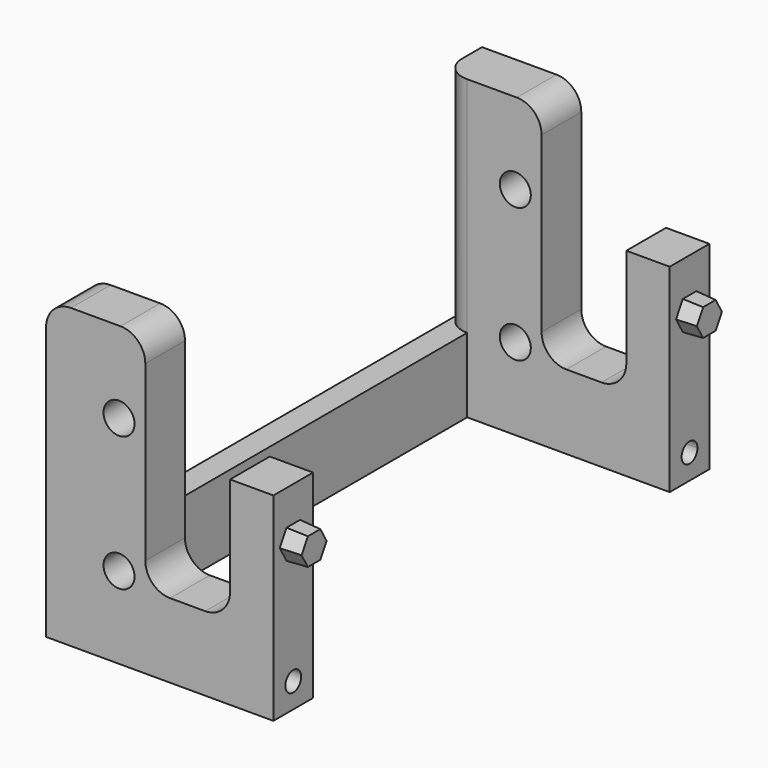
from build123d import *

# Parameters (mm, degrees)
F0_W      = 12.7
F0_H      = 50.8
F1_DEPTH  = 11.0998
F3_DEPTH  = 5.08
F3_TAPER  = 3
F4_W      = 12.7
F4_H      = 19.05
F5_DEPTH  = 47.0916
F6_W      = 6.35
F6_H      = 19.05
F7_DEPTH  = 126.7968
F8_W      = 12.7
F8_H      = 19.05
F9_DEPTH  = 40.7416
F10_W     = 12.7
F10_H     = 50.8
F11_DEPTH = 11.0998
F13_DEPTH = 5.334
F13_TAPER = 3
F14_W     = 25.4
F14_H     = 76.2
F15_DEPTH = 12.7
F16_W     = 25.4
F16_H     = 76.2
F17_DEPTH = 12.7
F18_R     = 3.96875
F19_DEPTH = 139.4978
F20_R     = 2.54
F21_DEPTH = 16.4348001
F22_R     = 2.54
F23_DEPTH = 58.1924
F24_R     = 3.81
F25_DEPTH = 45.4914
F26_R     = 6.35


with BuildPart() as f1:
    # F0 (on Right) → F1 (new body)
    with BuildSketch(Plane.YZ):
        with Locations((6.35, 25.4)):
            Rectangle(F0_W, F0_H)
    extrude(amount=F1_DEPTH)

    # F2 (on face) → F3 (join)
    with BuildSketch(Plane.YZ.offset(11.0998)):
        Polygon((4.191, 34.3605023065), (8.509, 34.3605023065), (10.668, 38.1), (8.509, 41.8394976935), (4.191, 41.8394976935), (2.032, 38.1), align=None)
    extrude(amount=F3_DEPTH, taper=F3_TAPER)

    # F4 (on face) → F5 (join)
    with BuildSketch(Plane(origin=(0, 0, 0), x_dir=(0, -1, 0), z_dir=(-1, 0, 0))):
        with Locations((-6.35, 9.525)):
            Rectangle(F4_W, F4_H)
    extrude(amount=F5_DEPTH)

    # F6 (on face) → F7 (join)
    with BuildSketch(Plane.XZ):
        with Locations((-43.9166, 9.525)):
            Rectangle(F6_W, F6_H)
    extrude(amount=F7_DEPTH)

    # F8 (on face) → F9 (join, through all)
    with BuildSketch(Plane.YZ.offset(-40.7416)):
        with Locations((-120.4468, 9.525)):
            Rectangle(F8_W, F8_H)
    extrude(amount=F9_DEPTH)

    # F10 (on face) → F11 (join)
    with BuildSketch(Plane.YZ):
        with Locations((-120.4468, 25.4)):
            Rectangle(F10_W, F10_H)
    extrude(amount=F11_DEPTH)

    # F12 (on face) → F13 (join)
    with BuildSketch(Plane.YZ.offset(11.0998)):
        Polygon((-118.2878, 41.8394976935), (-122.6058, 41.8394976935), (-124.7648, 38.1), (-122.6058, 34.3605023065), (-118.2878, 34.3605023065), (-116.1288, 38.1), align=None)
    extrude(amount=F13_DEPTH, taper=F13_TAPER)

    # F14 (on face) → F15 (join, through all)
    with BuildSketch(Plane(origin=(0, 12.7, 0), x_dir=(-1, 0, 0), z_dir=(0, 1, 0))):
        with Locations((34.3916, 38.1)):
            Rectangle(F14_W, F14_H)
    extrude(amount=-F15_DEPTH)

    # F16 (on face) → F17 (join, through all)
    with BuildSketch(Plane.XZ.offset(126.7968)):
        with Locations((-34.3916, 38.1)):
            Rectangle(F16_W, F16_H)
    extrude(amount=-F17_DEPTH)

    # F18 (on face) → F19 (cut, through all)
    with BuildSketch(Plane(origin=(0, 12.7, 0), x_dir=(-1, 0, 0), z_dir=(0, 1, 0))):
        with Locations((28.4226, 20.9296)):
            Circle(F18_R)
        with Locations((28.4226, 55.3466)):
            Circle(F18_R)
    extrude(amount=-F19_DEPTH, mode=Mode.SUBTRACT)

    # F20 (on face) → F21 (cut, through all)
    with BuildSketch(Plane(origin=(0, 0, 0), x_dir=(0, -1, 0), z_dir=(-1, 0, 0))):
        with Locations((-6.35, 6.35)):
            Circle(F20_R)
    extrude(amount=-F21_DEPTH, mode=Mode.SUBTRACT)

    # F22 (on face) → F23 (cut, through all)
    with BuildSketch(Plane.YZ.offset(11.0998)):
        with Locations((-120.4468, 6.35)):
            Circle(F22_R)
        with Locations((6.35, 6.35)):
            Circle(F22_R)
    extrude(amount=-F23_DEPTH, mode=Mode.SUBTRACT)

    # F24 (on face) → F25 (cut, through all)
    with BuildSketch(Plane(origin=(-47.0916, 0, 0), x_dir=(0, -1, 0), z_dir=(-1, 0, 0))):
        with Locations((120.4468, 6.35)):
            Circle(F24_R)
        with Locations((-6.35, 6.35)):
            Circle(F24_R)
    extrude(amount=-F25_DEPTH, mode=Mode.SUBTRACT)

    # F26
    f26_edges = [f1.edges().sort_by_distance(p)[0] for p in [
        (0, 6.35, 19.05),
        (-21.6916, 6.35, 19.05),
        (-21.6916, -120.4468, 19.05),
        (0, -120.4468, 19.05),
        (-47.0916, 0, 47.625),
        (-21.6916, 6.35, 76.2),
        (-47.0916, -120.4468, 76.2),
        (-21.6916, -120.4468, 76.2),
    ]]
    fillet(f26_edges, radius=F26_R)


solid = f1.part
